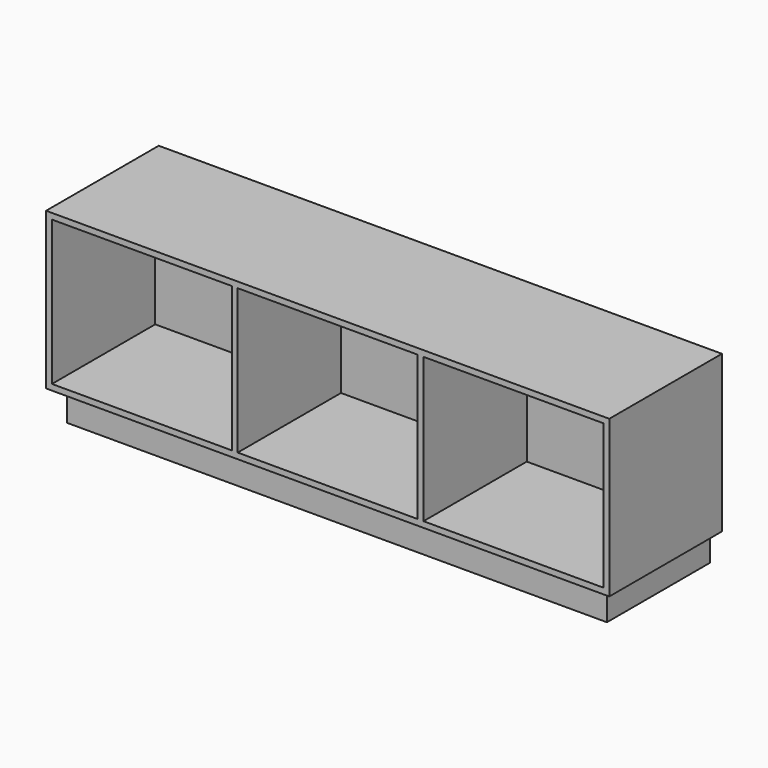
from build123d import *

# Parameters (mm, degrees)
F0_W     = 1828.8
F0_H     = 508
F1_DEPTH = 457.2
F2_W     = 584.2
F2_H     = 469.9
F3_DEPTH = 419.1
F4_W     = 1752.6
F4_H     = 419.1
F4_W_2   = 508
F4_H_2   = 381
F4_W_3   = 660.4
F5_DEPTH = 101.6


with BuildPart() as f1:
    # F0 (on Front) → F1 (new body)
    with BuildSketch(Plane.XZ):
        with Locations((914.4, 254)):
            Rectangle(F0_W, F0_H)
    extrude(amount=F1_DEPTH)

    # F2 (on face) → F3 (cut)
    with BuildSketch(Plane.XZ.offset(457.2)):
        with Locations((311.15, 254)):
            Rectangle(F2_W, F2_H)
        with Locations((914.4, 254)):
            Rectangle(F2_W, F2_H)
        with Locations((1517.65, 254)):
            Rectangle(F2_W, F2_H)
    extrude(amount=-F3_DEPTH, mode=Mode.SUBTRACT)

    # F4 (on face) → F5 (join)
    with BuildSketch(Plane(origin=(0, 0, 0), x_dir=(1, 0, 0), z_dir=(0, 0, -1))):
        with Locations((914.4, 209.55)):
            Rectangle(F4_W, F4_H)
        with Locations((311.15, 209.55)):
            Rectangle(F4_W_2, F4_H_2, mode=Mode.SUBTRACT)
        with Locations((914.4, 209.55)):
            Rectangle(F4_W_3, F4_H_2, mode=Mode.SUBTRACT)
        with Locations((1517.65, 209.55)):
            Rectangle(F4_W_2, F4_H_2, mode=Mode.SUBTRACT)
    extrude(amount=F5_DEPTH)


solid = f1.part
